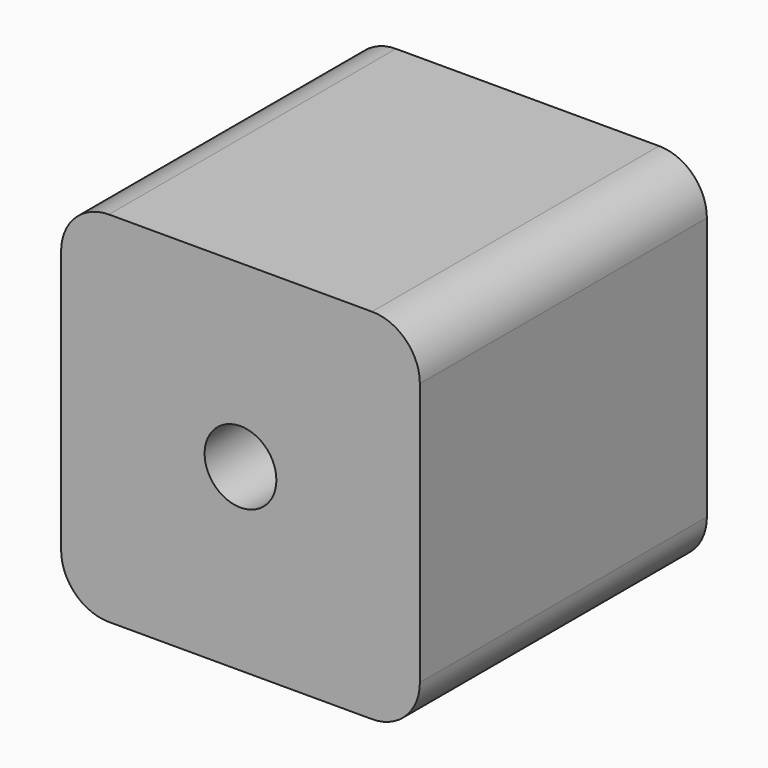
from build123d import *

# Parameters (mm, degrees)
F1_DEPTH = 150
F2_R     = 15
F3_DEPTH = 150.001


with BuildPart() as f1:
    # F0 (on Front) → F1 (new body)
    with BuildSketch(Plane.XZ):
        with BuildLine():
            Line((55, 75), (-55, 75))
            ThreePointArc((-55, 75), (-69.142136, 69.142136), (-75, 55))
            Line((-75, 55), (-75, -55))
            ThreePointArc((-75, -55), (-69.142136, -69.142136), (-55, -75))
            Line((-55, -75), (55, -75))
            ThreePointArc((55, -75), (69.142136, -69.142136), (75, -55))
            Line((75, -55), (75, 55))
            ThreePointArc((75, 55), (69.142136, 69.142136), (55, 75))
        make_face()
    extrude(amount=F1_DEPTH)

    # F2 (on face) → F3 (cut, through all)
    with BuildSketch(Plane.XZ.offset(150)):
        Circle(F2_R)
    extrude(amount=-F3_DEPTH, mode=Mode.SUBTRACT)


solid = f1.part
